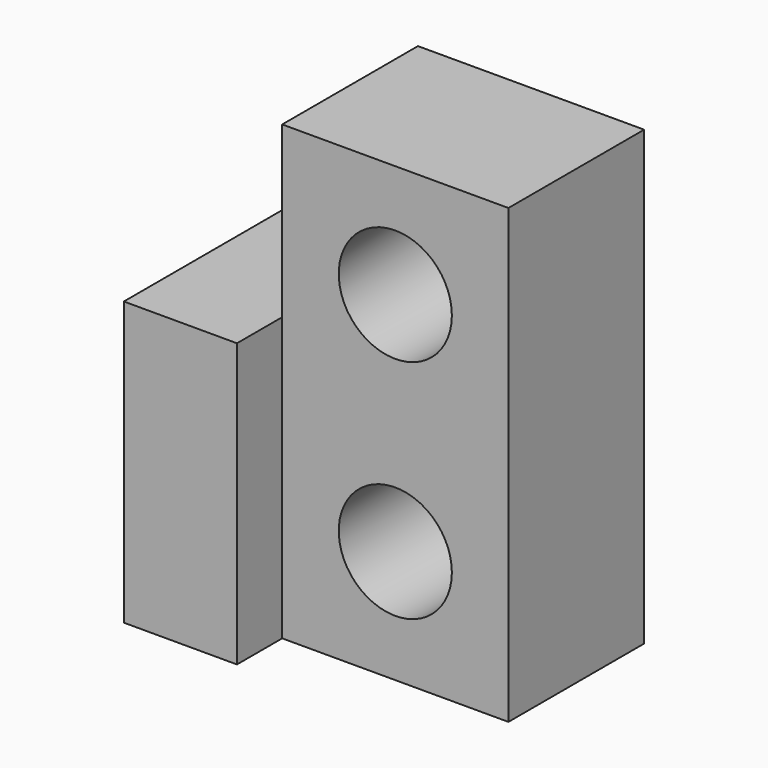
from build123d import *

# Parameters (mm, degrees)
F0_R     = 5
F1_DEPTH = 15
F0_W     = 10
F0_H     = 25
F2_DEPTH = 20
F3_R     = 5
F4_DEPTH = 15


with BuildPart() as f1:
    # F0 (on Front) → F1 (new body)
    with BuildSketch(Plane.XZ):
        Polygon((10, 20), (-10, 20), (-10, 10.714984), (-10, 5), (-10, -20), (10, -20), align=None)
        with Locations((0, -10)):
            Circle(F0_R, mode=Mode.SUBTRACT)
    extrude(amount=F1_DEPTH)

    # F0 (on Front) → F2 (join)
    with BuildSketch(Plane.XZ):
        with Locations((-15, -7.5)):
            Rectangle(F0_W, F0_H)
    extrude(amount=F2_DEPTH)

    # F3 (on face) → F4 (cut, through all)
    with BuildSketch(Plane.XZ.offset(15)):
        with Locations((0, 10)):
            Circle(F3_R)
    extrude(amount=-F4_DEPTH, mode=Mode.SUBTRACT)


solid = f1.part
